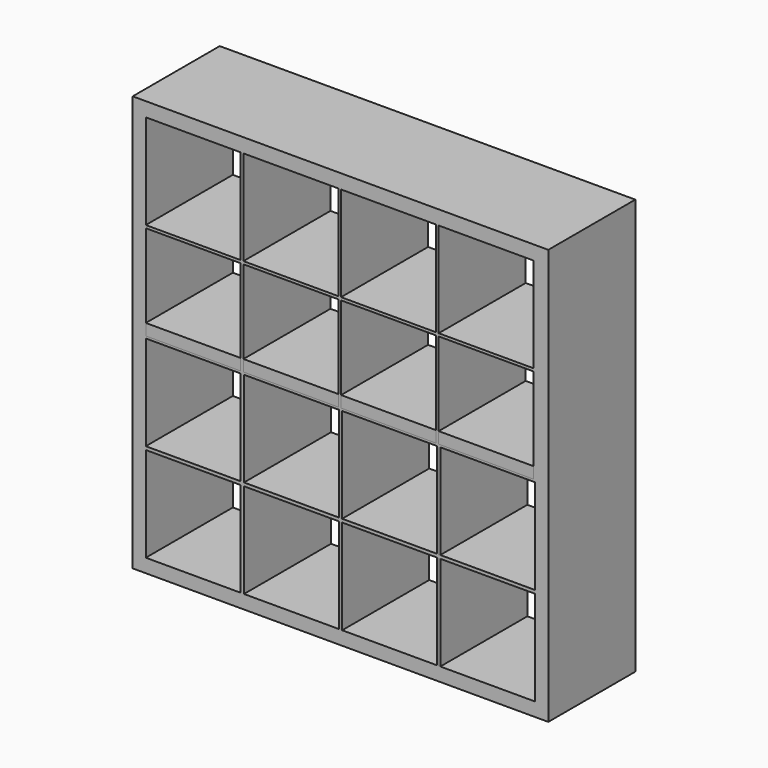
from build123d import *

# Parameters (mm, degrees)
F0_W     = 1490
F0_H     = 390
F1_DEPTH = 49
F2_W     = 47
F2_H     = 390
F2_W_2   = 12
F3_DEPTH = 692
F4_W     = 1490
F4_H     = 390
F5_DEPTH = 49
F6_W     = 390
F6_H     = 12
F7_DEPTH = 1410
F8_W     = 340
F8_H     = 340
F9_DEPTH = 390


with BuildPart() as f1:
    # F0 (on Top) → F1 (new body)
    with BuildSketch(Plane.XY):
        Rectangle(F0_W, F0_H)
    extrude(amount=F1_DEPTH)

    # F2 (on face) → F3 (join)
    with BuildSketch(Plane.XY.offset(49)):
        with Locations((-721.5, 0)):
            Rectangle(F2_W, F2_H)
        with Locations((721.5, 0)):
            Rectangle(F2_W, F2_H)
        with Locations((352, 0)):
            Rectangle(F2_W_2, F2_H)
        Rectangle(F2_W_2, F2_H)
        with Locations((-352, 0)):
            Rectangle(F2_W_2, F2_H)
    extrude(amount=F3_DEPTH)

    # F4 (on face) → F5 (join)
    with BuildSketch(Plane.XY.offset(741)):
        Rectangle(F4_W, F4_H)
    extrude(amount=F5_DEPTH)

    # F6 (on face) → F7 (join)
    with BuildSketch(Plane(origin=(698, 0, 0), x_dir=(0, -1, 0), z_dir=(-1, 0, 0))):
        with Locations((0, 395)):
            Rectangle(F6_W, F6_H)
    extrude(amount=F7_DEPTH)


with BuildPart() as f9:
    # F8 (on face) → F9 (new body)
    with BuildSketch(Plane.XZ.offset(195)):
        Polygon((-745, 1490), (-745, 790), (-698, 790), (-698, 1089), (-358, 1089), (-358, 790), (-348, 790), (-348, 1089), (-8, 1089), (-8, 790), (2, 790), (2, 1089), (342, 1089), (342, 790), (352, 790), (352, 1089), (692, 1089), (692, 790), (745, 790), (745, 1490), align=None)
        with Locations((-528, 1269)):
            Rectangle(F8_W, F8_H, mode=Mode.SUBTRACT)
        with Locations((-178, 1269)):
            Rectangle(F8_W, F8_H, mode=Mode.SUBTRACT)
        with Locations((172, 1269)):
            Rectangle(F8_W, F8_H, mode=Mode.SUBTRACT)
        with Locations((522, 1269)):
            Rectangle(F8_W, F8_H, mode=Mode.SUBTRACT)
        Polygon((-745, 790), (-745, 0), (745, 0), (745, 790), (692, 790), (692, 749), (352, 749), (352, 790), (342, 790), (342, 749), (2, 749), (2, 790), (-8, 790), (-8, 749), (-348, 749), (-348, 790), (-358, 790), (-358, 749), (-698, 749), (-698, 790), align=None)
        with Locations((-528, 219)):
            Rectangle(F8_W, F8_H, mode=Mode.SUBTRACT)
        Polygon((-346, 49), (-348, 49), (-348, 389), (-346, 389), (-8, 389), (-6, 389), (-6, 49), (-8, 49), align=None, mode=Mode.SUBTRACT)
        Polygon((-358, 399), (-698, 399), (-698, 401), (-698, 739), (-698, 741), (-358, 741), (-358, 739), (-358, 401), align=None, mode=Mode.SUBTRACT)
        Polygon((-8, 399), (-348, 399), (-348, 739), (-346, 739), (-346, 741), (-6, 741), (-6, 401), (-8, 401), align=None, mode=Mode.SUBTRACT)
        Polygon((6, 49), (2, 49), (2, 389), (6, 389), (342, 389), (346, 389), (346, 49), (342, 49), align=None, mode=Mode.SUBTRACT)
        Polygon((358, 49), (352, 49), (352, 389), (358, 389), (692, 389), (698, 389), (698, 49), (692, 49), align=None, mode=Mode.SUBTRACT)
        Polygon((342, 399), (2, 399), (2, 739), (6, 739), (6, 741), (346, 741), (346, 401), (342, 401), align=None, mode=Mode.SUBTRACT)
        Polygon((692, 399), (352, 399), (352, 739), (358, 739), (358, 741), (698, 741), (698, 401), (692, 401), align=None, mode=Mode.SUBTRACT)
    extrude(amount=-F9_DEPTH)


solid = Compound([f1.part, f9.part])
